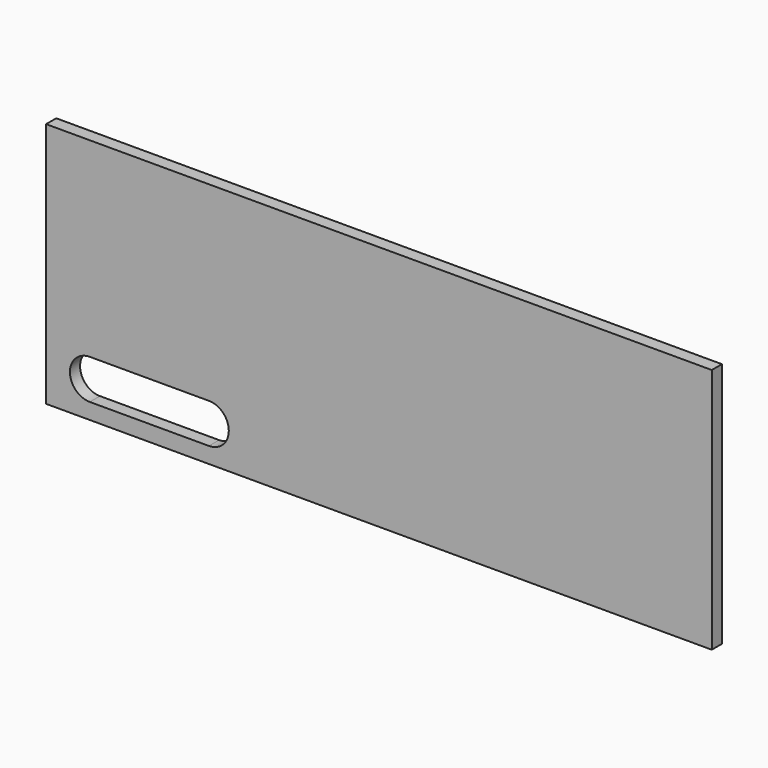
from build123d import *

# Parameters (mm, degrees)
F0_W     = 83.8
F0_H     = 31
F1_DEPTH = 1.6


with BuildPart() as f1:
    # F0 (on Front) → F1 (new body)
    with BuildSketch(Plane.XZ):
        with Locations((1.654214, 0)):
            Rectangle(F0_W, F0_H)
        with BuildLine():
            ThreePointArc((-34.745786, -13.5), (-37.245786, -11), (-34.745786, -8.5))
            Line((-34.745786, -8.5), (-19.745786, -8.5))
            ThreePointArc((-19.745786, -8.5), (-17.245786, -11), (-19.745786, -13.5))
            Line((-19.745786, -13.5), (-34.745786, -13.5))
        make_face(mode=Mode.SUBTRACT)
    extrude(amount=F1_DEPTH)


solid = f1.part
